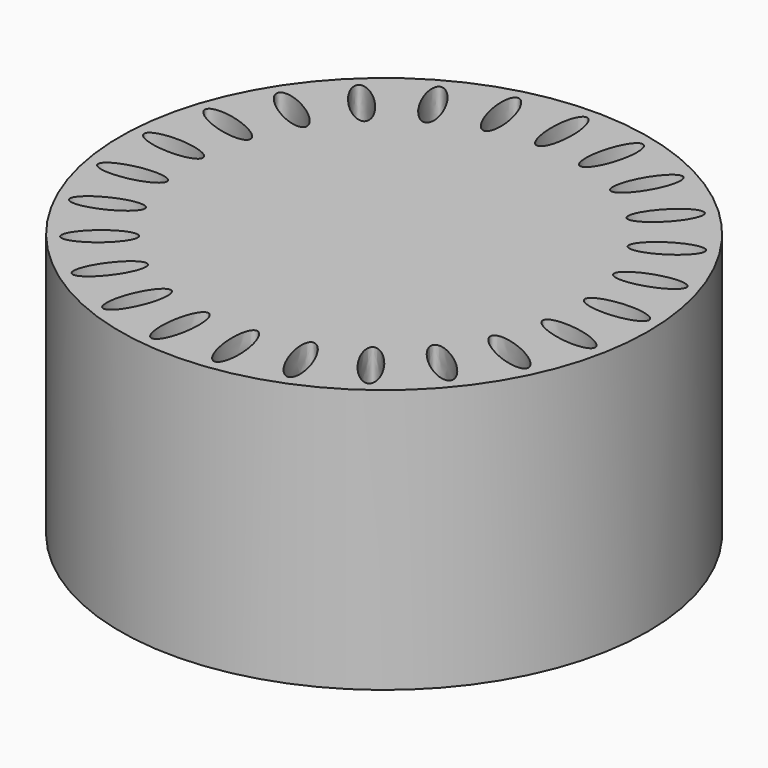
from build123d import *

# Parameters (mm, degrees)
F0_R     = 25
F1_DEPTH = 25


with BuildPart() as f1:
    # F0 (on Top) → F1 (new body)
    with BuildSketch(Plane.XY):
        Circle(F0_R)
        with BuildLine():
            add(Edge.make_bspline(
                [(-13.9611, -11.549626), (-15.047332, -10.236597), (-17.879452, -13.685349), (-20.711571, -17.134102), (-16.793219, -14.998379), (-12.874868, -12.862656), (-13.9611, -11.549626)],
                knots=[0, 0, 0, 2.094395, 2.094395, 4.18879, 4.18879, 6.283185, 6.283185, 6.283185], degree=2, weights=[1, 0.5, 1, 0.5, 1, 0.5, 1]))
        make_face(mode=Mode.SUBTRACT)
        with BuildLine():
            add(Edge.make_bspline(
                [(-6.67013, -16.846826), (-8.254559, -16.219506), (-9.074915, -20.606055), (-9.895272, -24.992603), (-7.490486, -21.233375), (-5.085701, -17.474146), (-6.67013, -16.846826)],
                knots=[0, 0, 0, 2.094395, 2.094395, 4.18879, 4.18879, 6.283185, 6.283185, 6.283185], degree=2, weights=[1, 0.5, 1, 0.5, 1, 0.5, 1]))
        make_face(mode=Mode.SUBTRACT)
        with BuildLine():
            add(Edge.make_bspline(
                [(-2.270941, -17.976346), (-3.9616, -17.762766), (-3.665293, -22.215517), (-3.368986, -26.668268), (-1.974633, -22.429097), (-0.580281, -18.189926), (-2.270941, -17.976346)],
                knots=[0, 0, 0, 2.094395, 2.094395, 4.18879, 4.18879, 6.283185, 6.283185, 6.283185], degree=2, weights=[1, 0.5, 1, 0.5, 1, 0.5, 1]))
        make_face(mode=Mode.SUBTRACT)
        with BuildLine():
            add(Edge.make_bspline(
                [(-10.650211, -14.658758), (-12.028854, -13.657115), (-13.914328, -17.701838), (-15.799801, -21.74656), (-12.535685, -18.703481), (-9.271568, -15.660401), (-10.650211, -14.658758)],
                knots=[0, 0, 0, 2.094395, 2.094395, 4.18879, 4.18879, 6.283185, 6.283185, 6.283185], degree=2, weights=[1, 0.5, 1, 0.5, 1, 0.5, 1]))
        make_face(mode=Mode.SUBTRACT)
        with BuildLine():
            add(Edge.make_bspline(
                [(-16.394762, -7.714789), (-17.120331, -6.172876), (-20.721144, -8.80896), (-24.321957, -11.445044), (-19.995575, -10.350873), (-15.669193, -9.256702), (-16.394762, -7.714789)],
                knots=[0, 0, 0, 2.094395, 2.094395, 4.18879, 4.18879, 6.283185, 6.283185, 6.283185], degree=2, weights=[1, 0.5, 1, 0.5, 1, 0.5, 1]))
        make_face(mode=Mode.SUBTRACT)
        with BuildLine():
            add(Edge.make_bspline(
                [(-17.79828, -3.395204), (-18.117596, -1.721291), (-22.26085, -3.379072), (-26.404104, -5.036852), (-21.941534, -5.052984), (-17.478964, -5.069116), (-17.79828, -3.395204)],
                knots=[0, 0, 0, 2.094395, 2.094395, 4.18879, 4.18879, 6.283185, 6.283185, 6.283185], degree=2, weights=[1, 0.5, 1, 0.5, 1, 0.5, 1]))
        make_face(mode=Mode.SUBTRACT)
        with BuildLine():
            add(Edge.make_bspline(
                [(2.270941, -17.976346), (0.580281, -18.189926), (1.974633, -22.429097), (3.368986, -26.668268), (3.665293, -22.215517), (3.9616, -17.762766), (2.270941, -17.976346)],
                knots=[0, 0, 0, 2.094395, 2.094395, 4.18879, 4.18879, 6.283185, 6.283185, 6.283185], degree=2, weights=[1, 0.5, 1, 0.5, 1, 0.5, 1]))
        make_face(mode=Mode.SUBTRACT)
        with BuildLine():
            add(Edge.make_bspline(
                [(6.67013, -16.846826), (5.085701, -17.474146), (7.490486, -21.233375), (9.895272, -24.992603), (9.074915, -20.606055), (8.254559, -16.219506), (6.67013, -16.846826)],
                knots=[0, 0, 0, 2.094395, 2.094395, 4.18879, 4.18879, 6.283185, 6.283185, 6.283185], degree=2, weights=[1, 0.5, 1, 0.5, 1, 0.5, 1]))
        make_face(mode=Mode.SUBTRACT)
        with BuildLine():
            add(Edge.make_bspline(
                [(10.650211, -14.658758), (9.271568, -15.660401), (12.535685, -18.703481), (15.799801, -21.74656), (13.914328, -17.701838), (12.028854, -13.657115), (10.650211, -14.658758)],
                knots=[0, 0, 0, 2.094395, 2.094395, 4.18879, 4.18879, 6.283185, 6.283185, 6.283185], degree=2, weights=[1, 0.5, 1, 0.5, 1, 0.5, 1]))
        make_face(mode=Mode.SUBTRACT)
        with BuildLine():
            add(Edge.make_bspline(
                [(13.9611, -11.549626), (12.874868, -12.862656), (16.793219, -14.998379), (20.711571, -17.134102), (17.879452, -13.685349), (15.047332, -10.236597), (13.9611, -11.549626)],
                knots=[0, 0, 0, 2.094395, 2.094395, 4.18879, 4.18879, 6.283185, 6.283185, 6.283185], degree=2, weights=[1, 0.5, 1, 0.5, 1, 0.5, 1]))
        make_face(mode=Mode.SUBTRACT)
        with BuildLine():
            add(Edge.make_bspline(
                [(16.394762, -7.714789), (15.669193, -9.256702), (19.995575, -10.350873), (24.321957, -11.445044), (20.721144, -8.80896), (17.120331, -6.172876), (16.394762, -7.714789)],
                knots=[0, 0, 0, 2.094395, 2.094395, 4.18879, 4.18879, 6.283185, 6.283185, 6.283185], degree=2, weights=[1, 0.5, 1, 0.5, 1, 0.5, 1]))
        make_face(mode=Mode.SUBTRACT)
        with BuildLine():
            add(Edge.make_bspline(
                [(17.79828, -3.395204), (17.478964, -5.069116), (21.941534, -5.052984), (26.404104, -5.036852), (22.26085, -3.379072), (18.117596, -1.721291), (17.79828, -3.395204)],
                knots=[0, 0, 0, 2.094395, 2.094395, 4.18879, 4.18879, 6.283185, 6.283185, 6.283185], degree=2, weights=[1, 0.5, 1, 0.5, 1, 0.5, 1]))
        make_face(mode=Mode.SUBTRACT)
        with BuildLine():
            add(Edge.make_bspline(
                [(-18.083467, 1.137715), (-17.976466, 2.838449), (-22.401826, 2.263136), (-26.827185, 1.687823), (-22.508827, 0.562402), (-18.190469, -0.563019), (-18.083467, 1.137715)],
                knots=[0, 0, 0, 2.094395, 2.094395, 4.18879, 4.18879, 6.283185, 6.283185, 6.283185], degree=2, weights=[1, 0.5, 1, 0.5, 1, 0.5, 1]))
        make_face(mode=Mode.SUBTRACT)
        with BuildLine():
            add(Edge.make_bspline(
                [(-17.232404, 5.599147), (-16.705809, 7.21984), (-21.135212, 7.763143), (-25.564615, 8.306447), (-21.661807, 6.142451), (-17.758999, 3.978455), (-17.232404, 5.599147)],
                knots=[0, 0, 0, 2.094395, 2.094395, 4.18879, 4.18879, 6.283185, 6.283185, 6.283185], degree=2, weights=[1, 0.5, 1, 0.5, 1, 0.5, 1]))
        make_face(mode=Mode.SUBTRACT)
        with BuildLine():
            add(Edge.make_bspline(
                [(-15.298565, 9.708764), (-14.385464, 11.147581), (-18.540595, 12.775363), (-22.695726, 14.403146), (-19.453696, 11.336547), (-16.211665, 8.269948), (-15.298565, 9.708764)],
                knots=[0, 0, 0, 2.094395, 2.094395, 4.18879, 4.18879, 6.283185, 6.283185, 6.283185], degree=2, weights=[1, 0.5, 1, 0.5, 1, 0.5, 1]))
        make_face(mode=Mode.SUBTRACT)
        with BuildLine():
            add(Edge.make_bspline(
                [(-12.403461, 13.208344), (-11.161228, 14.374879), (-14.781005, 16.98486), (-18.400782, 19.594842), (-16.023238, 15.818326), (-13.645694, 12.04181), (-12.403461, 13.208344)],
                knots=[0, 0, 0, 2.094395, 2.094395, 4.18879, 4.18879, 6.283185, 6.283185, 6.283185], degree=2, weights=[1, 0.5, 1, 0.5, 1, 0.5, 1]))
        make_face(mode=Mode.SUBTRACT)
        with BuildLine():
            add(Edge.make_bspline(
                [(-8.729002, 15.877995), (-7.23569, 16.69895), (-10.092669, 20.127136), (-12.949648, 23.555323), (-11.585981, 19.306181), (-10.222313, 15.05704), (-8.729002, 15.877995)],
                knots=[0, 0, 0, 2.094395, 2.094395, 4.18879, 4.18879, 6.283185, 6.283185, 6.283185], degree=2, weights=[1, 0.5, 1, 0.5, 1, 0.5, 1]))
        make_face(mode=Mode.SUBTRACT)
        with BuildLine():
            add(Edge.make_bspline(
                [(-4.506067, 17.549973), (-2.855508, 17.973765), (-4.770174, 22.00475), (-6.684841, 26.035735), (-6.420734, 21.580958), (-6.156627, 17.126181), (-4.506067, 17.549973)],
                knots=[0, 0, 0, 2.094395, 2.094395, 4.18879, 4.18879, 6.283185, 6.283185, 6.283185], degree=2, weights=[1, 0.5, 1, 0.5, 1, 0.5, 1]))
        make_face(mode=Mode.SUBTRACT)
        with BuildLine():
            add(Edge.make_bspline(
                [(18.083467, 1.137715), (18.190469, -0.563019), (22.508827, 0.562402), (26.827185, 1.687823), (22.401826, 2.263136), (17.976466, 2.838449), (18.083467, 1.137715)],
                knots=[0, 0, 0, 2.094395, 2.094395, 4.18879, 4.18879, 6.283185, 6.283185, 6.283185], degree=2, weights=[1, 0.5, 1, 0.5, 1, 0.5, 1]))
        make_face(mode=Mode.SUBTRACT)
        with BuildLine():
            add(Edge.make_bspline(
                [(15.298565, 9.708764), (16.211665, 8.269948), (19.453696, 11.336547), (22.695726, 14.403146), (18.540595, 12.775363), (14.385464, 11.147581), (15.298565, 9.708764)],
                knots=[0, 0, 0, 2.094395, 2.094395, 4.18879, 4.18879, 6.283185, 6.283185, 6.283185], degree=2, weights=[1, 0.5, 1, 0.5, 1, 0.5, 1]))
        make_face(mode=Mode.SUBTRACT)
        with BuildLine():
            add(Edge.make_bspline(
                [(17.232404, 5.599147), (17.758999, 3.978455), (21.661807, 6.142451), (25.564615, 8.306447), (21.135212, 7.763143), (16.705809, 7.21984), (17.232404, 5.599147)],
                knots=[0, 0, 0, 2.094395, 2.094395, 4.18879, 4.18879, 6.283185, 6.283185, 6.283185], degree=2, weights=[1, 0.5, 1, 0.5, 1, 0.5, 1]))
        make_face(mode=Mode.SUBTRACT)
        with BuildLine():
            add(Edge.make_bspline(
                [(8.729002, 15.877995), (10.222313, 15.05704), (11.585981, 19.306181), (12.949648, 23.555323), (10.092669, 20.127136), (7.23569, 16.69895), (8.729002, 15.877995)],
                knots=[0, 0, 0, 2.094395, 2.094395, 4.18879, 4.18879, 6.283185, 6.283185, 6.283185], degree=2, weights=[1, 0.5, 1, 0.5, 1, 0.5, 1]))
        make_face(mode=Mode.SUBTRACT)
        with BuildLine():
            add(Edge.make_bspline(
                [(0, 18.119222), (1.704097, 18.119222), (0.852048, 22.499724), (0, 26.880227), (-0.852048, 22.499724), (-1.704097, 18.119222), (0, 18.119222)],
                knots=[0, 0, 0, 2.094395, 2.094395, 4.18879, 4.18879, 6.283185, 6.283185, 6.283185], degree=2, weights=[1, 0.5, 1, 0.5, 1, 0.5, 1]))
        make_face(mode=Mode.SUBTRACT)
        with BuildLine():
            add(Edge.make_bspline(
                [(4.506067, 17.549973), (6.156627, 17.126181), (6.420734, 21.580958), (6.684841, 26.035735), (4.770174, 22.00475), (2.855508, 17.973765), (4.506067, 17.549973)],
                knots=[0, 0, 0, 2.094395, 2.094395, 4.18879, 4.18879, 6.283185, 6.283185, 6.283185], degree=2, weights=[1, 0.5, 1, 0.5, 1, 0.5, 1]))
        make_face(mode=Mode.SUBTRACT)
        with BuildLine():
            add(Edge.make_bspline(
                [(12.403461, 13.208344), (13.645694, 12.04181), (16.023238, 15.818326), (18.400782, 19.594842), (14.781005, 16.98486), (11.161228, 14.374879), (12.403461, 13.208344)],
                knots=[0, 0, 0, 2.094395, 2.094395, 4.18879, 4.18879, 6.283185, 6.283185, 6.283185], degree=2, weights=[1, 0.5, 1, 0.5, 1, 0.5, 1]))
        make_face(mode=Mode.SUBTRACT)
    extrude(amount=F1_DEPTH)


solid = f1.part
